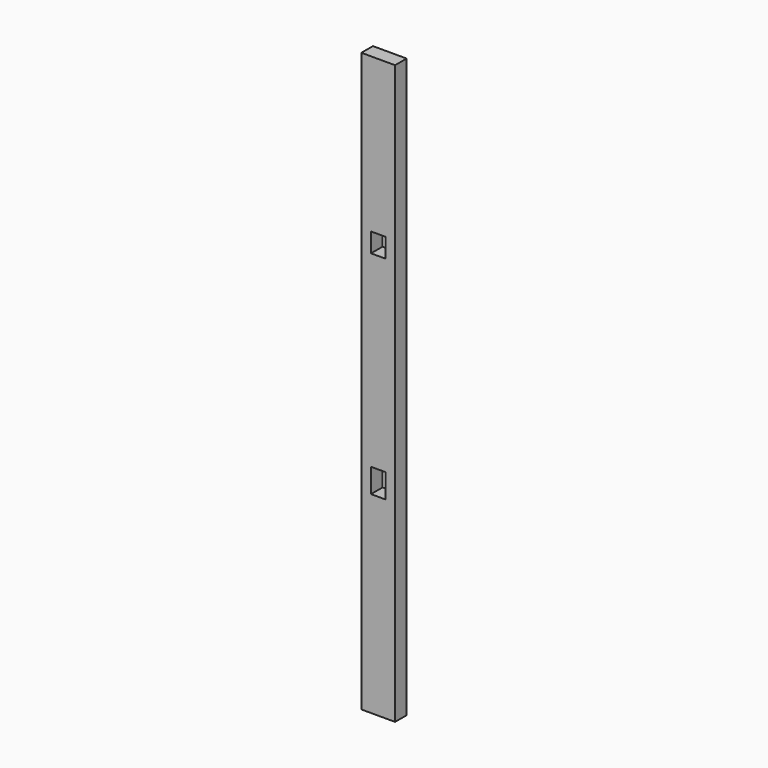
from build123d import *

# Parameters (mm, degrees)
F0_W     = 88.9
F0_H     = 38.1
F1_DEPTH = 1524
F2_W     = 38.1
F2_H     = 50.8
F3_DEPTH = 38.1
F4_W     = 38.1
F4_H     = 63.5
F5_DEPTH = 38.1


with BuildPart() as f1:
    # F0 (on Top) → F1 (new body)
    with BuildSketch(Plane.XY):
        with Locations((44.45, 19.05)):
            Rectangle(F0_W, F0_H)
    extrude(amount=F1_DEPTH)

    # F2 (on face) → F3 (cut, through all)
    with BuildSketch(Plane(origin=(0, 38.1, 0), x_dir=(-1, 0, 0), z_dir=(0, 1, 0))):
        with Locations((-44.45, 1092.2)):
            Rectangle(F2_W, F2_H)
    extrude(amount=-F3_DEPTH, mode=Mode.SUBTRACT)

    # F4 (on face) → F5 (cut, through all)
    with BuildSketch(Plane.XZ):
        with Locations((44.45, 539.75)):
            Rectangle(F4_W, F4_H)
    extrude(amount=-F5_DEPTH, mode=Mode.SUBTRACT)


solid = f1.part
